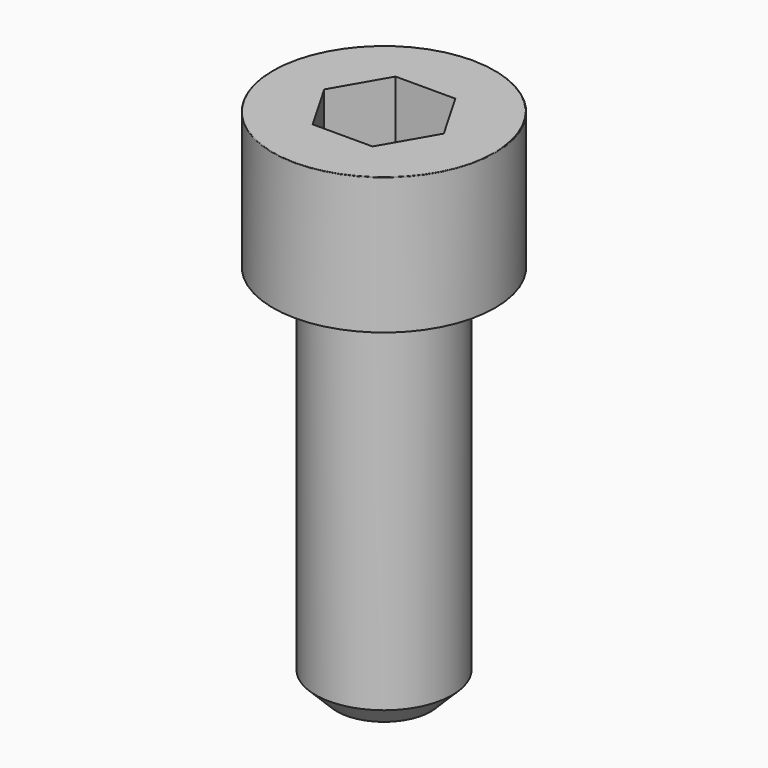
from build123d import *

# Parameters (mm, degrees)
POCKET_DEPTH = 6.06


with BuildPart() as part:
    # Sketch → Revolve (revolve)
    with BuildSketch(Plane.YZ):
        with BuildLine():
            Line((3.999, 0), (6.5, 0))
            Line((6.5, 0), (6.5, 7.97229))
            ThreePointArc((6.5, 7.97229), (6.491884, 7.991884), (6.47229, 8))
            Line((6.47229, 8), (0, 8))
            Line((0, -22), (0, 8))
            Line((2.75, -22), (0, -22))
            Line((4, -20.75), (2.75, -22))
            Line((4, -0.2), (4, -20.75))
            Line((3.999, 0), (4, -0.2))
        make_face()
    revolve(axis=Axis((0, 0, 0), (0, 0, 1)))

    # Sketch001 → Pocket (cut)
    with BuildSketch(Plane.XY.offset(8)):
        Polygon((3.498743, 0), (1.749371, 3.03), (-1.749371, 3.03), (-3.498743, 0), (-1.749371, -3.03), (1.749371, -3.03), align=None)
    extrude(amount=-POCKET_DEPTH, mode=Mode.SUBTRACT)


solid = part.part
